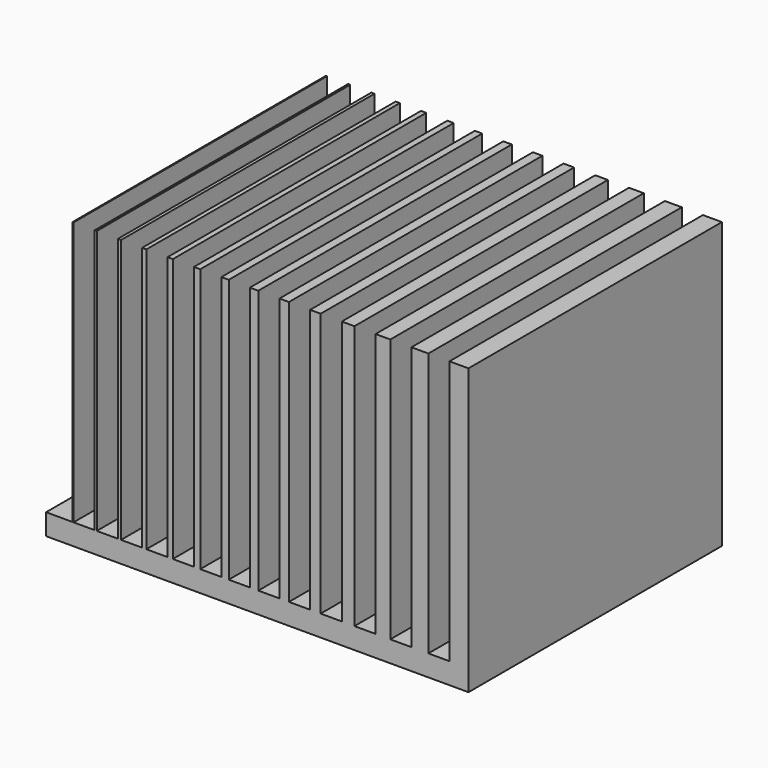
from build123d import *

# Parameters (mm, degrees)
F0_W     = 40
F0_H     = 30
F1_DEPTH = 2
F2_W     = 0.2
F2_H     = 30
F2_W_2   = 0.3
F2_W_3   = 0.4
F2_W_4   = 0.5
F2_W_5   = 0.6
F2_W_6   = 0.7
F2_W_7   = 0.8
F2_W_8   = 0.9
F2_W_9   = 1
F2_W_10  = 1.2
F2_W_11  = 1.4
F2_W_12  = 1.6
F2_W_13  = 1.8
F2_W_14  = 0.1
F3_DEPTH = 25


with BuildPart() as f1:
    # F0 (on Top) → F1 (new body)
    with BuildSketch(Plane.XY):
        with Locations((-2.071959, 1.725906)):
            Rectangle(F0_W, F0_H)
    extrude(amount=F1_DEPTH)

    # F2 (on face) → F3 (join)
    with BuildSketch(Plane.XY.offset(2)):
        with Locations((-17.371959, 1.725906)):
            Rectangle(F2_W, F2_H)
        with Locations((-15.121959, 1.725906)):
            Rectangle(F2_W_2, F2_H)
        with Locations((-12.771959, 1.725906)):
            Rectangle(F2_W_3, F2_H)
        with Locations((-10.321959, 1.725906)):
            Rectangle(F2_W_4, F2_H)
        with Locations((-7.771959, 1.725906)):
            Rectangle(F2_W_5, F2_H)
        with Locations((-5.121959, 1.725906)):
            Rectangle(F2_W_6, F2_H)
        with Locations((-2.371959, 1.725906)):
            Rectangle(F2_W_7, F2_H)
        with Locations((0.478041, 1.725906)):
            Rectangle(F2_W_8, F2_H)
        with Locations((3.428041, 1.725906)):
            Rectangle(F2_W_9, F2_H)
        with Locations((6.528041, 1.725906)):
            Rectangle(F2_W_10, F2_H)
        with Locations((9.828041, 1.725906)):
            Rectangle(F2_W_11, F2_H)
        with Locations((13.328041, 1.725906)):
            Rectangle(F2_W_12, F2_H)
        with Locations((17.028041, 1.725906)):
            Rectangle(F2_W_13, F2_H)
        with Locations((-19.521959, 1.725906)):
            Rectangle(F2_W_14, F2_H)
    extrude(amount=F3_DEPTH)


solid = f1.part
